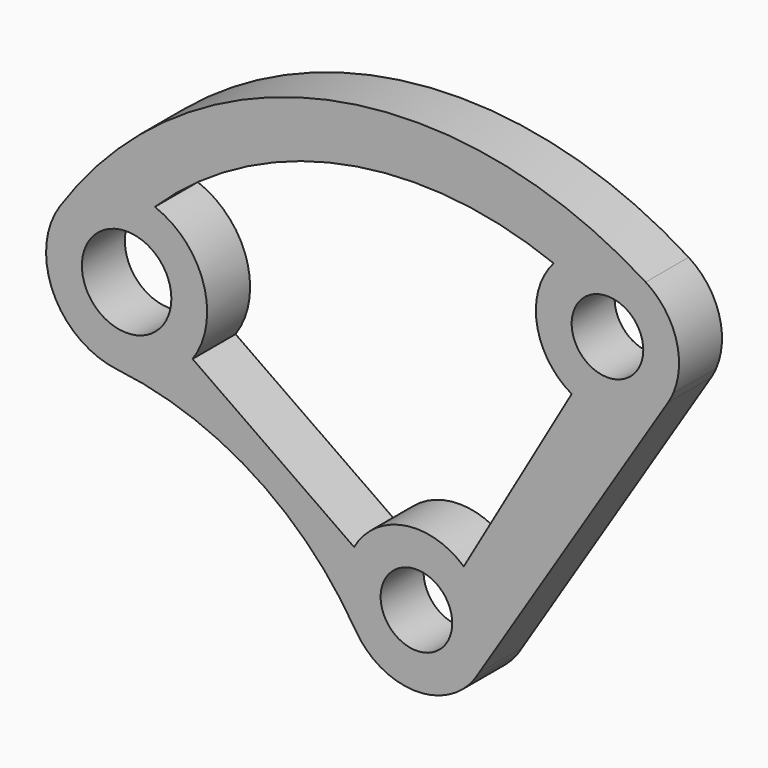
from build123d import *

# Parameters (mm, degrees)
F0_R     = 254
F0_R_2   = 317.5
F1_DEPTH = 381


with BuildPart() as f1:
    # F0 (on Front) → F1 (new body)
    with BuildSketch(Plane.XZ):
        with BuildLine():
            ThreePointArc((1822.329039, 1947.307339), (1840.827988, 2298.519927), (1626.77431, 2577.578194))
            ThreePointArc((1626.77431, 2577.578194), (-630.724521, 2982.02793), (-2531.126787, 1698.146397))
            ThreePointArc((-2531.126787, 1698.146397), (-2575.362885, 1140.086696), (-2121.78414, 811.980336))
            ThreePointArc((-2121.78414, 811.980336), (-1153.243243, 468.122787), (-433.228843, -265.286202))
            ThreePointArc((-433.228843, -265.286202), (-16.444732, -507.73376), (415.154435, -292.76406))
            Line((415.154435, -292.76406), (442.782693, -249.013025))
            Line((442.782693, -249.013025), (1785.171239, 1876.741283))
            ThreePointArc((1785.171239, 1876.741283), (1805.137056, 1911.294006), (1822.329039, 1947.307339))
        make_face()
        Circle(F0_R, mode=Mode.SUBTRACT)
        with Locations((-2056.540515, 1379.743948)):
            Circle(F0_R_2, mode=Mode.SUBTRACT)
        with BuildLine():
            Line((-442.473485, 249.562046), (-1588.395121, 1051.945014))
            ThreePointArc((-1588.395121, 1051.945014), (-1510.723689, 1549.143601), (-1856.252131, 1914.997919))
            ThreePointArc((-1856.252131, 1914.997919), (-524.746556, 2614.867119), (973.689309, 2482.905179))
            ThreePointArc((973.689309, 2482.905179), (854.433082, 2065.214968), (1101.64526, 1708.040922))
            Line((1101.64526, 1708.040922), (335.657404, 381.311038))
            ThreePointArc((335.657404, 381.311038), (-84.804882, 500.871373), (-442.473485, 249.562046))
        make_face(mode=Mode.SUBTRACT)
        with Locations((1355.64526, 2147.981827)):
            Circle(F0_R, mode=Mode.SUBTRACT)
    extrude(amount=F1_DEPTH)


solid = f1.part
